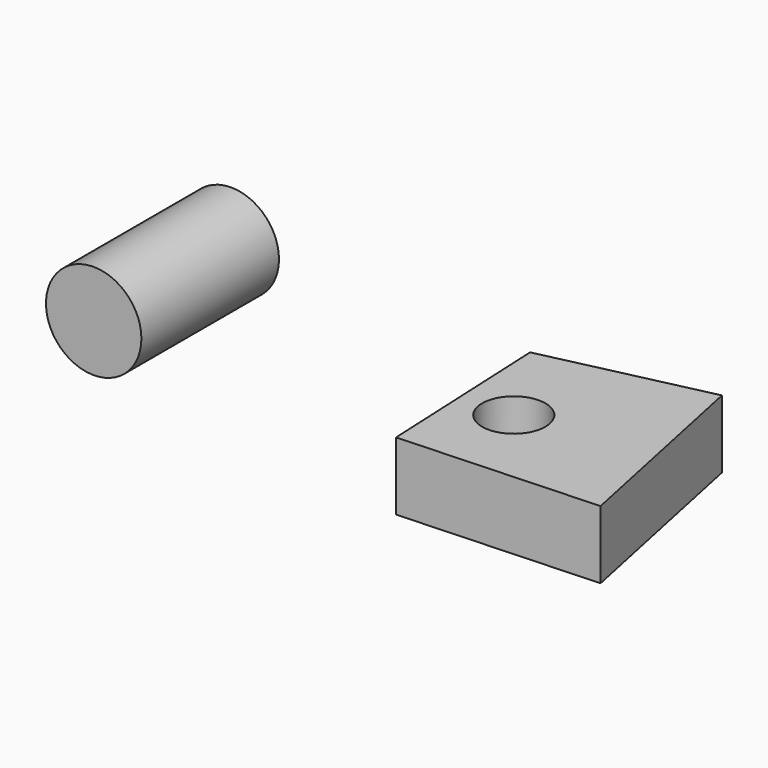
from build123d import *

# Parameters (mm, degrees)
F0_R     = 11.843685
F1_DEPTH = 25.4
F2_R     = 17.822523
F3_DEPTH = 64.262


with BuildPart() as f1:
    # F0 (on Top) → F1 (new body)
    with BuildSketch(Plane.XY):
        Polygon((13.638169, 50.12254), (-47.067091, 36.399901), (-44.029011, -30.003849), (29.686686, -26.631236), align=None)
        with Locations((-26.032276, 2.491817)):
            Circle(F0_R, mode=Mode.SUBTRACT)
    extrude(amount=F1_DEPTH)


with BuildPart() as f3:
    # F2 (on Front) → F3 (new body)
    with BuildSketch(Plane.XZ):
        with Locations((-129.594356, 49.775574)):
            Circle(F2_R)
    extrude(amount=F3_DEPTH)


solid = Compound([f1.part, f3.part])
